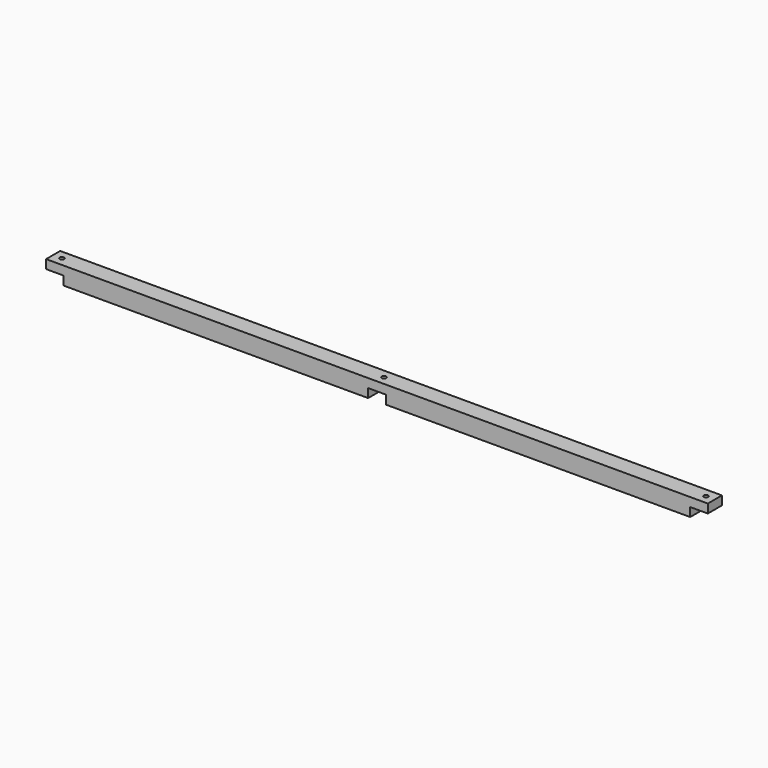
from build123d import *

# Parameters (mm, degrees)
SKETCH030_W     = 40
SKETCH030_H     = 40
PAD022_DEPTH    = 1500
SKETCH031_W     = 40
SKETCH031_H     = 40
POCKET008_DEPTH = 20
SKETCH059_R     = 5
POCKET014_DEPTH = 40.001


with BuildPart() as part:
    # Sketch030 → Pad022 (new body)
    with BuildSketch(Plane.YZ):
        with Locations((-300, 280)):
            Rectangle(SKETCH030_W, SKETCH030_H)
    extrude(amount=PAD022_DEPTH)

    # Sketch031 (on Face3 of Pad022) → Pocket008 (cut)
    with BuildSketch(Plane.YX.offset(-260)):
        with Locations((-300, 1480)):
            Rectangle(SKETCH031_W, SKETCH031_H)
        with Locations((-300, 750)):
            Rectangle(SKETCH031_W, SKETCH031_H)
        with Locations((-300, 20)):
            Rectangle(SKETCH031_W, SKETCH031_H)
    extrude(amount=-POCKET008_DEPTH, mode=Mode.SUBTRACT)

    # Sketch059 → Pocket014 (cut, through all)
    with BuildSketch(Plane(origin=(0, 0, 300), x_dir=(0, -1, 0), z_dir=(0, 0, 1))):
        with Locations((300, 20)):
            Circle(SKETCH059_R)
        with Locations((300, 750)):
            Circle(SKETCH059_R)
        with Locations((300, 1480)):
            Circle(SKETCH059_R)
    extrude(amount=-POCKET014_DEPTH, mode=Mode.SUBTRACT)


with BuildPart() as part_1:
    # Clone010 placement: moved
    add(part.part.moved(Location((0, 0, 450))))


solid = part_1.part
